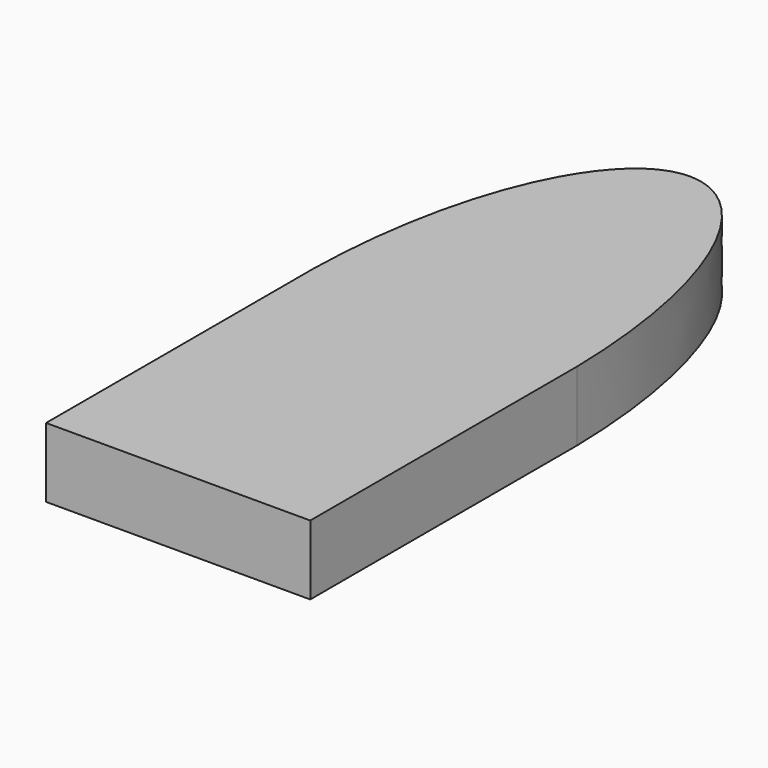
from build123d import *

# Parameters (mm, degrees)
F1_DEPTH = 3.175


with BuildPart() as f1:
    # F0 (on Top) → F1 (new body)
    with BuildSketch(Plane.XY):
        with BuildLine():
            Line((-6.0325, -14.605), (6.0325, -14.605))
            Line((6.0325, -14.605), (6.0325, -0.635))
            Line((6.0325, -0.635), (6.0325, 0.635))
            add(Edge.make_bspline(
                [(6.0325, 0.635), (5.7811458333, 14.605), (0, 14.605), (-5.7811458333, 14.605), (-6.0325, 0.635)],
                knots=[4.7558809512, 4.7558809512, 4.7558809512, 6.2831853072, 6.2831853072, 7.8104896632, 7.8104896632, 7.8104896632], degree=2, weights=[1, 0.7223151185, 1, 0.7223151185, 1]))
            Line((-6.0325, 0.635), (-6.0325, -0.635))
            Line((-6.0325, -0.635), (-6.0325, -14.605))
        make_face()
    extrude(amount=F1_DEPTH)


solid = f1.part
